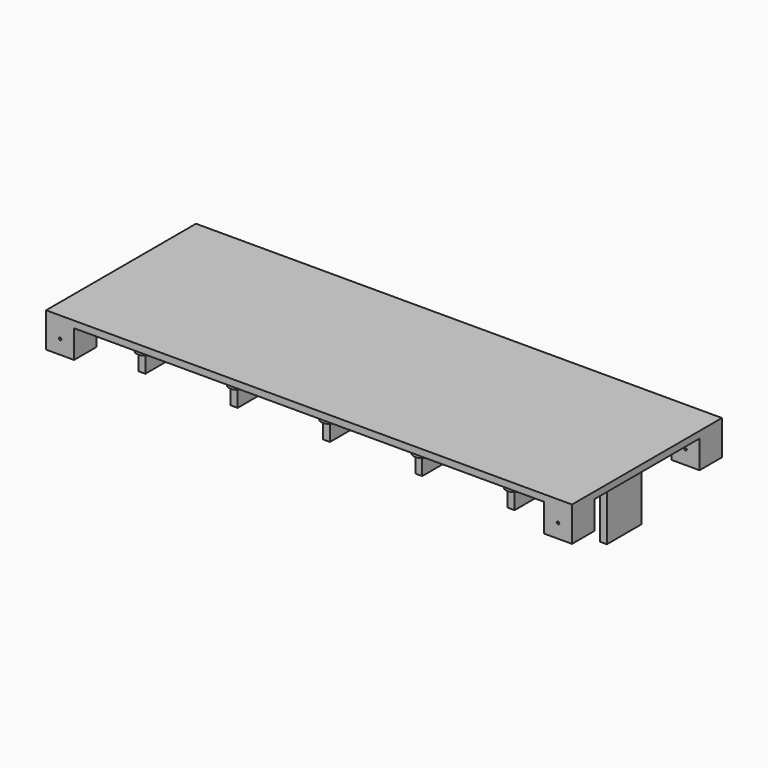
from build123d import *

# Parameters (mm, degrees)
F0_W     = 188
F0_H     = 67
F1_DEPTH = 2.4
F2_R     = 2.8
F3_DEPTH = 5
F2_W     = 10
F2_H     = 10
F4_DEPTH = 10
F2_W_2   = 2.5
F2_H_2   = 7
F2_W_3   = 1.2939542532
F2_W_4   = 1.2059563398
F2_H_3   = 8.3965584815
F2_W_5   = 1.2060457468
F2_W_6   = 1.2940436602
F5_DEPTH = 25
F2_W_7   = 30.5
F6_DEPTH = 3.8
F7_R     = 0.45
F8_DEPTH = 67.001


with BuildPart() as f1:
    # F0 (on Top) → F1 (new body)
    with BuildSketch(Plane.XY):
        Rectangle(F0_W, F0_H)
    extrude(amount=F1_DEPTH)

    # F2 (on face) → F3 (join)
    with BuildSketch(Plane(origin=(0, 0, 0), x_dir=(1, 0, 0), z_dir=(0, 0, -1))):
        with Locations((66, 24.5)):
            Circle(F2_R)
        with Locations((33, 24.5)):
            Circle(F2_R)
        with Locations((0, 24.5)):
            Circle(F2_R)
        with Locations((-33, 24.5)):
            Circle(F2_R)
        with Locations((-66, 24.5)):
            Circle(F2_R)
    extrude(amount=F3_DEPTH)

    # F2 (on face) → F4 (join)
    with BuildSketch(Plane(origin=(0, 0, 0), x_dir=(1, 0, 0), z_dir=(0, 0, -1))):
        with Locations((89, -28.5)):
            Rectangle(F2_W, F2_H)
        with Locations((89, 28.5)):
            Rectangle(F2_W, F2_H)
        with Locations((-89, -28.5)):
            Rectangle(F2_W, F2_H)
        with Locations((-89, 28.5)):
            Rectangle(F2_W, F2_H)
    extrude(amount=F4_DEPTH)

    # F2 (on face) → F5 (join)
    with BuildSketch(Plane(origin=(0, 0, 0), x_dir=(1, 0, 0), z_dir=(0, 0, -1))):
        with Locations((-49.5, -6.8)):
            Rectangle(F2_W_2, F2_H_2)
        with Locations((-16.5, -6.8)):
            Rectangle(F2_W_2, F2_H_2)
        with Locations((16.5, -6.8)):
            Rectangle(F2_W_2, F2_H_2)
        with Locations((49.5, -6.8)):
            Rectangle(F2_W_2, F2_H_2)
        with Locations((-81.8969771266, -6.8)):
            Rectangle(F2_W_3, F2_H_2)
        with Locations((83.1470218301, -6.8)):
            Rectangle(F2_W_4, F2_H_2)
        Polygon((-82.5439542532, -3.3), (-81.25, -3.3), (-81.25, 5.0965584815), (-83.75, 5.0965584815), (-83.75, -3.3), align=None)
        with Locations((-49.5, 0.8982792407)):
            Rectangle(F2_W_2, F2_H_3)
        with Locations((-16.5, 0.8982792407)):
            Rectangle(F2_W_2, F2_H_3)
        with Locations((16.5, 0.8982792407)):
            Rectangle(F2_W_2, F2_H_3)
        with Locations((49.5, 0.8982792407)):
            Rectangle(F2_W_2, F2_H_3)
        Polygon((82.5440436602, -3.3), (83.75, -3.3), (83.75, 5.0965584815), (81.25, 5.0965584815), (81.25, -3.3), align=None)
        with Locations((-83.1469771266, -6.8)):
            Rectangle(F2_W_5, F2_H_2)
        with Locations((81.8970218301, -6.8)):
            Rectangle(F2_W_6, F2_H_2)
    extrude(amount=F5_DEPTH)

    # F2 (on face) → F6 (join)
    with BuildSketch(Plane(origin=(0, 0, 0), x_dir=(1, 0, 0), z_dir=(0, 0, -1))):
        with Locations((66, -6.8)):
            Rectangle(F2_W_7, F2_H_2)
        with Locations((33, -6.8)):
            Rectangle(F2_W_7, F2_H_2)
        with Locations((0, -6.8)):
            Rectangle(F2_W_7, F2_H_2)
        with Locations((-33, -6.8)):
            Rectangle(F2_W_7, F2_H_2)
        with Locations((-66, -6.8)):
            Rectangle(F2_W_7, F2_H_2)
    extrude(amount=F6_DEPTH)

    # F7 (on face) → F8 (cut, through all)
    with BuildSketch(Plane(origin=(0, 33.5, 0), x_dir=(-1, 0, 0), z_dir=(0, 1, 0))):
        with Locations((89, -5)):
            Circle(F7_R)
        with Locations((-89, -5)):
            Circle(F7_R)
    extrude(amount=-F8_DEPTH, mode=Mode.SUBTRACT)


solid = f1.part
